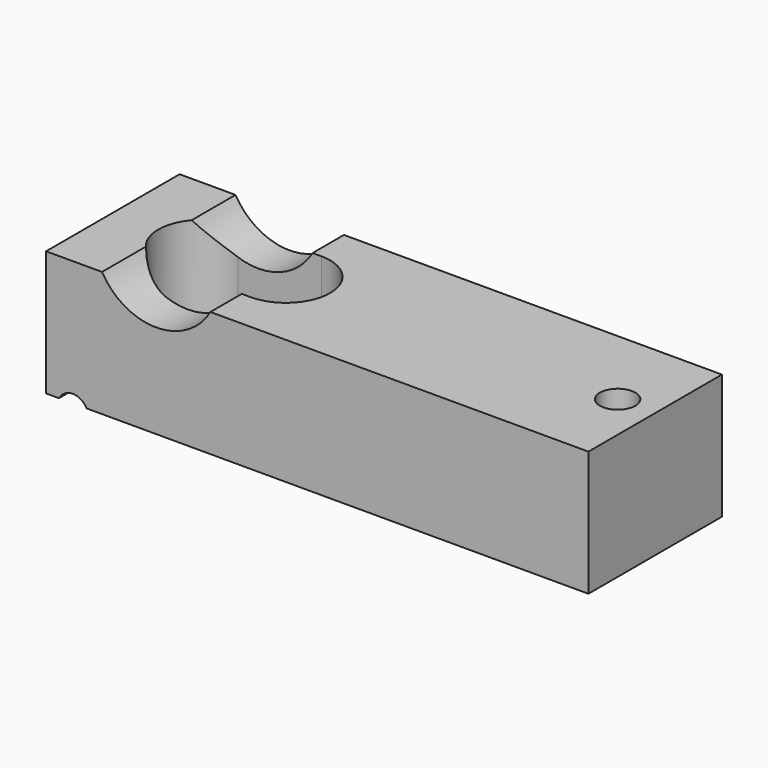
from build123d import *

# Parameters (mm, degrees)
F0_W     = 82.55
F0_H     = 19.05
F1_DEPTH = 25.4
F3_DEPTH = 25.4
F4_R     = 9.525
F5_DEPTH = 25.4
F6_R     = 2.38125
F7_DEPTH = 25.4
F9_D     = 5.4102


with BuildPart() as f1:
    # F0 (on Front) → F1 (new body)
    with BuildSketch(Plane.XZ):
        with Locations((41.275, -9.525)):
            Rectangle(F0_W, F0_H)
    extrude(amount=F1_DEPTH)

    # F2 (on face) → F3 (cut)
    with BuildSketch(Plane.XY):
        with BuildLine():
            Line((26.3469211429, -5.969), (13.6469211429, -5.969))
            ThreePointArc((13.6469211429, -5.969), (6.9159211429, -12.7), (13.6469211429, -19.431))
            Line((13.6469211429, -19.431), (26.3469211429, -19.431))
            ThreePointArc((26.3469211429, -19.431), (33.0779211429, -12.7), (26.3469211429, -5.969))
        make_face()
    extrude(amount=-F3_DEPTH, mode=Mode.SUBTRACT)

    # F4 (on face) → F5 (cut)
    with BuildSketch(Plane.XZ.offset(25.4)):
        with Locations((16.764, 4.7625)):
            Circle(F4_R)
    extrude(amount=-F5_DEPTH, mode=Mode.SUBTRACT)

    # F6 (on face) → F7 (cut)
    with BuildSketch(Plane.XZ.offset(25.4)):
        with Locations((4.064, -20.16125)):
            Circle(F6_R)
    extrude(amount=-F7_DEPTH, mode=Mode.SUBTRACT)

    # F9 (through all)
    with Locations(Plane.XY):
        with Locations((76.835, -12.7)):
            Hole(F9_D / 2)


solid = f1.part
